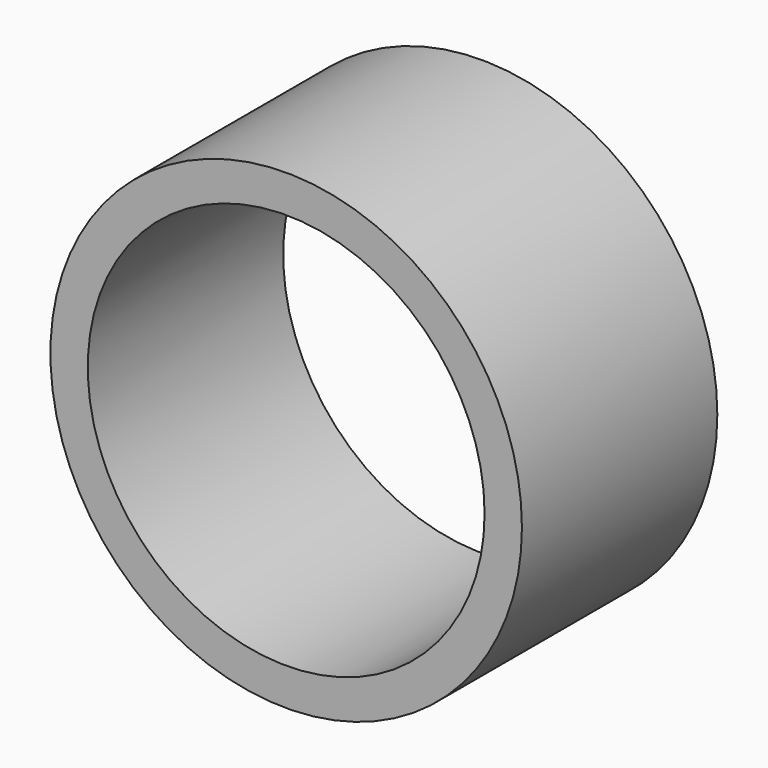
from build123d import *

# Parameters (mm, degrees)
F1_R     = 48.26
F1_R_2   = 40.615617
F2_DEPTH = 50


with BuildPart() as f2:
    # F1 (on Front) → F2 (new body)
    with BuildSketch(Plane.XZ):
        with Locations((0, 61.241146)):
            Circle(F1_R)
        with Locations((0, 61.241146)):
            Circle(F1_R_2, mode=Mode.SUBTRACT)
    extrude(amount=F2_DEPTH)


with BuildPart() as f3_1:
    # F3: copy of F2
    add(f2.part)


solid = Compound([f2.part, f3_1.part])
